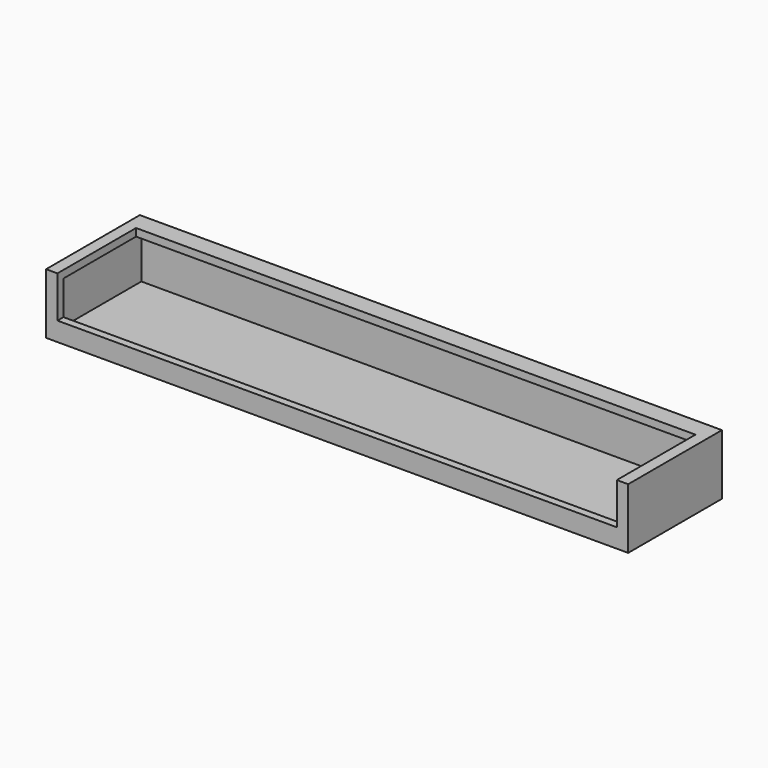
from build123d import *

# Parameters (mm, degrees)
F0_W     = 154
F0_H     = 31
F1_DEPTH = 8
F2_W     = 150
F2_H     = 27
F3_DEPTH = 6
F4_W     = 148
F4_H     = 26
F5_DEPTH = 11


with BuildPart() as f1:
    # F0 (on Top) → F1 (new body, symmetric)
    with BuildSketch(Plane.XY):
        Rectangle(F0_W, F0_H)
    extrude(amount=F1_DEPTH, both=True)

    # F2 (on Top) → F3 (cut, symmetric)
    with BuildSketch(Plane.XY):
        Rectangle(F2_W, F2_H)
    extrude(amount=F3_DEPTH, both=True, mode=Mode.SUBTRACT)

    # F4 (on face) → F5 (cut)
    with BuildSketch(Plane.XY.offset(8)):
        with Locations((0, -2.5)):
            Rectangle(F4_W, F4_H)
    extrude(amount=-F5_DEPTH, mode=Mode.SUBTRACT)


solid = f1.part
